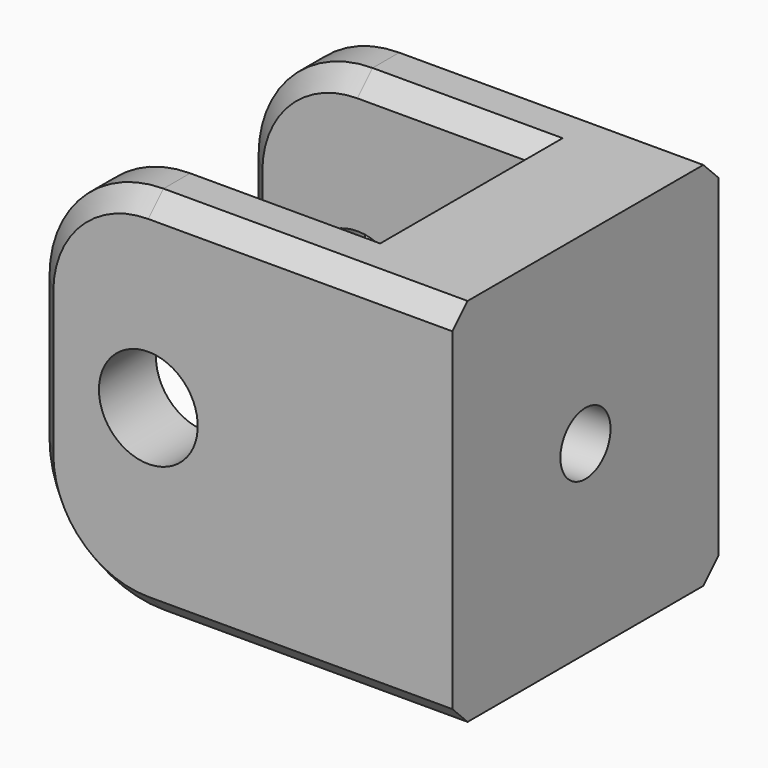
from build123d import *

# Parameters (mm, degrees)
F1_DEPTH       = 19.5
F2_R           = 2.6
F3_DEPTH       = 17.501
F5_D           = 3.3
F5_CBORE_D     = 6.5
F5_CBORE_DEPTH = 3
F6_R           = 6
F7_SIZE        = 1


with BuildPart() as f1:
    # F0 (on Top) → F1 (new body)
    with BuildSketch(Plane.XY):
        Polygon((-22, 0), (0, 0), (0, 17.5), (-22, 17.5), (-22, 13.75), (-6, 13.75), (-6, 3.75), (-22, 3.75), align=None)
    extrude(amount=F1_DEPTH)

    # F2 (on face) → F3 (cut, through all)
    with BuildSketch(Plane(origin=(0, 17.5, 0), x_dir=(-1, 0, 0), z_dir=(0, 1, 0))):
        with Locations((16, 9.75)):
            Circle(F2_R)
    extrude(amount=-F3_DEPTH, mode=Mode.SUBTRACT)

    # F5 (through all)
    with Locations(Plane(origin=(-6, 0, 0), x_dir=(0, -1, 0), z_dir=(-1, 0, 0))):
        with Locations((-8.75, 9.75)):
            CounterBoreHole(F5_D / 2, F5_CBORE_D / 2, F5_CBORE_DEPTH)

    # F6
    f6_edges = [f1.edges().sort_by_distance(p)[0] for p in [
        (-22, 15.625, 0),
        (-22, 15.625, 19.5),
        (-22, 1.875, 19.5),
        (-22, 1.875, 0),
    ]]
    fillet(f6_edges, radius=F6_R)

    # F7
    f7_edges = [f1.edges().sort_by_distance(p)[0] for p in [
        (-8, 17.5, 0),
        (-8, 0, 0),
        (-11, 3.75, 0),
        (-11, 13.75, 0),
    ]]
    chamfer(f7_edges, length=F7_SIZE)


solid = f1.part
